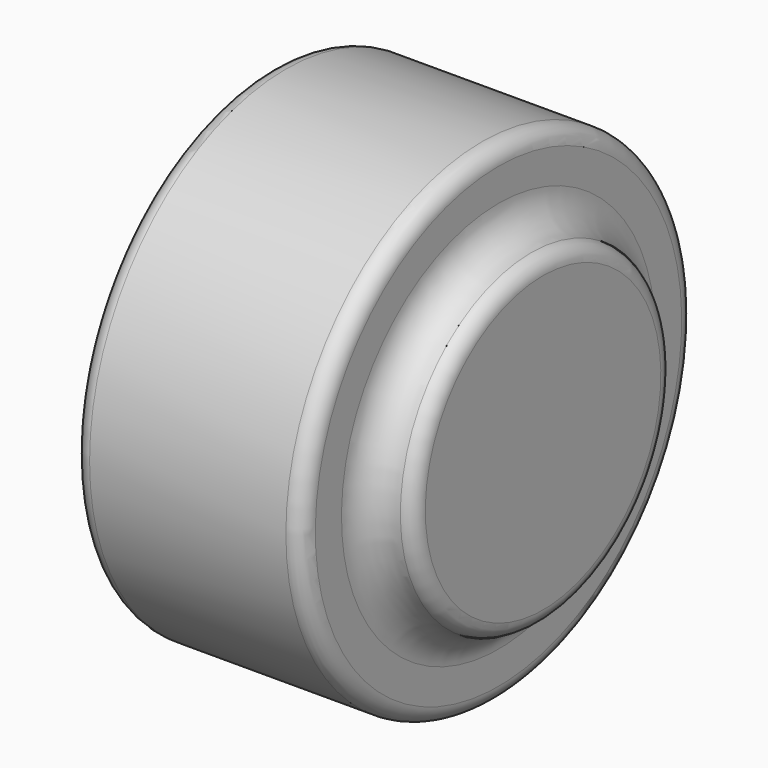
from build123d import *


with BuildPart() as f1:
    # F0 (on Front) → F1 (revolve)
    with BuildSketch(Plane.XZ):
        with BuildLine():
            Line((-51.375001, 45), (-51.375001, 0))
            Line((-51.375001, 0), (48.624999, 0))
            Line((48.624999, 0), (48.624999, 45))
            ThreePointArc((48.624999, 45), (47.160533, 48.535534), (43.624999, 50))
            Line((43.624999, 50), (45, 50))
            ThreePointArc((45, 50), (37.928932, 52.928932), (35, 60))
            Line((35, 60), (35, 70))
            ThreePointArc((35, 70), (33.535534, 73.535534), (30, 75))
            Line((30, 75), (-30, 75))
            ThreePointArc((-30, 75), (-33.535534, 73.535534), (-35, 70))
            Line((-35, 70), (-35, 60))
            ThreePointArc((-35, 60), (-37.928932, 52.928932), (-45, 50))
            Line((-45, 50), (-46.375001, 50))
            ThreePointArc((-46.375001, 50), (-49.910535, 48.535534), (-51.375001, 45))
        make_face()
    revolve(axis=Axis((-1.375001, 0, 0), (-1, 0, 0)))


solid = f1.part
